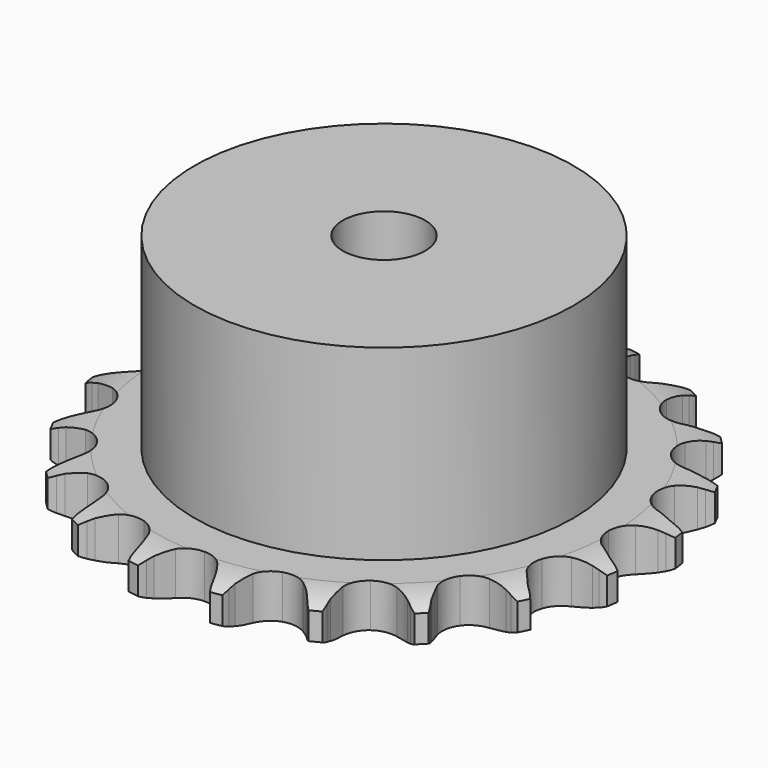
from build123d import *

# Parameters (mm, degrees)
PAD_DEPTH         = 5.3
SKETCH001_R       = 23
PAD001_DEPTH      = 28
SKETCH002_R       = 5
POCKET_DEPTH      = 0.001
POCKET_DEPTH_BACK = -28.001


with BuildPart() as part:
    # Sprocket → Pad (new body)
    with BuildSketch(Plane.XY):
        with BuildLine():
            ThreePointArc((-5.205483, 32.866126), (-4.489771, 32.037905), (-3.962254, 31.078781))
            Line((-3.962254, 31.078781), (-3.656643, 30.351761))
            ThreePointArc((-3.656643, 30.351761), (-3.16351, 29.366997), (-2.544467, 28.456103))
            ThreePointArc((-2.544467, 28.456103), (-1.415489, 27.541875), (0, 27.215083))
            ThreePointArc((0, 27.215083), (1.415489, 27.541875), (2.544467, 28.456103))
            ThreePointArc((2.544467, 28.456103), (3.16351, 29.366997), (3.656643, 30.351761))
            Line((3.656643, 30.351761), (3.962254, 31.078781))
            ThreePointArc((3.962254, 31.078781), (4.489771, 32.037905), (5.205483, 32.866126))
            ThreePointArc((5.205483, 32.866126), (5.630231, 31.857274), (5.835544, 30.782081))
            Line((5.835544, 30.782081), (5.901536, 29.996205))
            ThreePointArc((5.901536, 29.996205), (6.066224, 28.907252), (6.373487, 27.849646))
            ThreePointArc((6.373487, 27.849646), (7.164697, 26.63129), (8.409923, 25.883082))
            ThreePointArc((8.409923, 25.883082), (9.857118, 25.756469), (11.213351, 26.277079))
            Line((11.213351, 26.277079), (12.856884, 27.736276))
            ThreePointArc((12.856884, 27.736276), (13.107455, 28.040892), (13.372199, 28.333273))
            ThreePointArc((13.372199, 28.333273), (14.170283, 29.082443), (15.1069, 29.648961))
            ThreePointArc((15.1069, 29.648961), (15.199107, 28.558231), (15.062118, 27.472216))
            Line((15.062118, 27.472216), (14.882031, 26.704412))
            ThreePointArc((14.882031, 26.704412), (14.702154, 25.617864), (14.667561, 24.517071))
            ThreePointArc((14.667561, 24.517071), (15.043553, 23.113849), (15.996625, 22.017465))
            ThreePointArc((15.996625, 22.017465), (17.333863, 21.449841), (18.784595, 21.525871))
            Line((18.784595, 21.525871), (20.798604, 22.40577))
            ThreePointArc((20.798604, 22.40577), (21.131042, 22.618046), (21.47318, 22.814307))
            ThreePointArc((21.47318, 22.814307), (22.463709, 23.280189), (23.529548, 23.529548))
            ThreePointArc((23.529548, 23.529548), (23.280189, 22.463709), (22.814307, 21.47318))
            Line((22.814307, 21.47318), (22.40577, 20.798604))
            ThreePointArc((22.40577, 20.798604), (21.898935, 19.820821), (21.525871, 18.784595))
            ThreePointArc((21.525871, 18.784595), (21.449841, 17.333863), (22.017465, 15.996625))
            ThreePointArc((22.017465, 15.996625), (23.113849, 15.043553), (24.517071, 14.667561))
            Line((24.517071, 14.667561), (26.704412, 14.882031))
            ThreePointArc((26.704412, 14.882031), (27.086176, 14.981189), (27.472216, 15.062118))
            ThreePointArc((27.472216, 15.062118), (28.558231, 15.199107), (29.648961, 15.1069))
            ThreePointArc((29.648961, 15.1069), (29.082443, 14.170283), (28.333273, 13.372199))
            Line((28.333273, 13.372199), (27.736276, 12.856884))
            ThreePointArc((27.736276, 12.856884), (26.952095, 12.083578), (26.277079, 11.213351))
            ThreePointArc((26.277079, 11.213351), (25.756469, 9.857118), (25.883082, 8.409923))
            ThreePointArc((25.883082, 8.409923), (26.63129, 7.164697), (27.849646, 6.373487))
            Line((27.849646, 6.373487), (29.996205, 5.901536))
            ThreePointArc((29.996205, 5.901536), (30.389927, 5.877869), (30.782081, 5.835544))
            ThreePointArc((30.782081, 5.835544), (31.857274, 5.630231), (32.866126, 5.205483))
            ThreePointArc((32.866126, 5.205483), (32.037905, 4.489771), (31.078781, 3.962254))
            Line((31.078781, 3.962254), (30.351761, 3.656643))
            ThreePointArc((30.351761, 3.656643), (29.366997, 3.16351), (28.456103, 2.544467))
            ThreePointArc((28.456103, 2.544467), (27.541875, 1.415489), (27.215083, 0))
            ThreePointArc((27.215083, 0), (27.541875, -1.415489), (28.456103, -2.544467))
            Line((28.456103, -2.544467), (30.351761, -3.656643))
            ThreePointArc((30.351761, -3.656643), (30.718899, -3.800818), (31.078781, -3.962254))
            ThreePointArc((31.078781, -3.962254), (32.037905, -4.489771), (32.866126, -5.205483))
            ThreePointArc((32.866126, -5.205483), (31.857274, -5.630231), (30.782081, -5.835544))
            Line((30.782081, -5.835544), (29.996205, -5.901536))
            ThreePointArc((29.996205, -5.901536), (28.907252, -6.066224), (27.849646, -6.373487))
            ThreePointArc((27.849646, -6.373487), (26.63129, -7.164697), (25.883082, -8.409923))
            ThreePointArc((25.883082, -8.409923), (25.756469, -9.857118), (26.277079, -11.213351))
            Line((26.277079, -11.213351), (27.736276, -12.856884))
            ThreePointArc((27.736276, -12.856884), (28.040892, -13.107455), (28.333273, -13.372199))
            ThreePointArc((28.333273, -13.372199), (29.082443, -14.170283), (29.648961, -15.1069))
            ThreePointArc((29.648961, -15.1069), (28.558231, -15.199107), (27.472216, -15.062118))
            Line((27.472216, -15.062118), (26.704412, -14.882031))
            ThreePointArc((26.704412, -14.882031), (25.617864, -14.702154), (24.517071, -14.667561))
            ThreePointArc((24.517071, -14.667561), (23.113849, -15.043553), (22.017465, -15.996625))
            ThreePointArc((22.017465, -15.996625), (21.449841, -17.333863), (21.525871, -18.784595))
            Line((21.525871, -18.784595), (22.40577, -20.798604))
            ThreePointArc((22.40577, -20.798604), (22.618046, -21.131042), (22.814307, -21.47318))
            ThreePointArc((22.814307, -21.47318), (23.280189, -22.463709), (23.529548, -23.529548))
            ThreePointArc((23.529548, -23.529548), (22.463709, -23.280189), (21.47318, -22.814307))
            Line((21.47318, -22.814307), (20.798604, -22.40577))
            ThreePointArc((20.798604, -22.40577), (19.820821, -21.898935), (18.784595, -21.525871))
            ThreePointArc((18.784595, -21.525871), (17.333863, -21.449841), (15.996625, -22.017465))
            ThreePointArc((15.996625, -22.017465), (15.043553, -23.113849), (14.667561, -24.517071))
            Line((14.667561, -24.517071), (14.882031, -26.704412))
            ThreePointArc((14.882031, -26.704412), (14.981189, -27.086176), (15.062118, -27.472216))
            ThreePointArc((15.062118, -27.472216), (15.199107, -28.558231), (15.1069, -29.648961))
            ThreePointArc((15.1069, -29.648961), (14.170283, -29.082443), (13.372199, -28.333273))
            Line((13.372199, -28.333273), (12.856884, -27.736276))
            ThreePointArc((12.856884, -27.736276), (12.083578, -26.952095), (11.213351, -26.277079))
            ThreePointArc((11.213351, -26.277079), (9.857118, -25.756469), (8.409923, -25.883082))
            ThreePointArc((8.409923, -25.883082), (7.164697, -26.63129), (6.373487, -27.849646))
            Line((6.373487, -27.849646), (5.901536, -29.996205))
            ThreePointArc((5.901536, -29.996205), (5.877869, -30.389927), (5.835544, -30.782081))
            ThreePointArc((5.835544, -30.782081), (5.630231, -31.857274), (5.205483, -32.866126))
            ThreePointArc((5.205483, -32.866126), (4.489771, -32.037905), (3.962254, -31.078781))
            Line((3.962254, -31.078781), (3.656643, -30.351761))
            ThreePointArc((3.656643, -30.351761), (3.16351, -29.366997), (2.544467, -28.456103))
            ThreePointArc((2.544467, -28.456103), (1.415489, -27.541875), (0, -27.215083))
            ThreePointArc((0, -27.215083), (-1.415489, -27.541875), (-2.544467, -28.456103))
            Line((-2.544467, -28.456103), (-3.656643, -30.351761))
            ThreePointArc((-3.656643, -30.351761), (-3.800818, -30.718899), (-3.962254, -31.078781))
            ThreePointArc((-3.962254, -31.078781), (-4.489771, -32.037905), (-5.205483, -32.866126))
            ThreePointArc((-5.205483, -32.866126), (-5.630231, -31.857274), (-5.835544, -30.782081))
            Line((-5.835544, -30.782081), (-5.901536, -29.996205))
            ThreePointArc((-5.901536, -29.996205), (-6.066224, -28.907252), (-6.373487, -27.849646))
            ThreePointArc((-6.373487, -27.849646), (-7.164697, -26.63129), (-8.409923, -25.883082))
            ThreePointArc((-8.409923, -25.883082), (-9.857118, -25.756469), (-11.213351, -26.277079))
            Line((-11.213351, -26.277079), (-12.856884, -27.736276))
            ThreePointArc((-12.856884, -27.736276), (-13.107455, -28.040892), (-13.372199, -28.333273))
            ThreePointArc((-13.372199, -28.333273), (-14.170283, -29.082443), (-15.1069, -29.648961))
            ThreePointArc((-15.1069, -29.648961), (-15.199107, -28.558231), (-15.062118, -27.472216))
            Line((-15.062118, -27.472216), (-14.882031, -26.704412))
            ThreePointArc((-14.882031, -26.704412), (-14.702154, -25.617864), (-14.667561, -24.517071))
            ThreePointArc((-14.667561, -24.517071), (-15.043553, -23.113849), (-15.996625, -22.017465))
            ThreePointArc((-15.996625, -22.017465), (-17.333863, -21.449841), (-18.784595, -21.525871))
            Line((-18.784595, -21.525871), (-20.798604, -22.40577))
            ThreePointArc((-20.798604, -22.40577), (-21.131042, -22.618046), (-21.47318, -22.814307))
            ThreePointArc((-21.47318, -22.814307), (-22.463709, -23.280189), (-23.529548, -23.529548))
            ThreePointArc((-23.529548, -23.529548), (-23.280189, -22.463709), (-22.814307, -21.47318))
            Line((-22.814307, -21.47318), (-22.40577, -20.798604))
            ThreePointArc((-22.40577, -20.798604), (-21.898935, -19.820821), (-21.525871, -18.784595))
            ThreePointArc((-21.525871, -18.784595), (-21.449841, -17.333863), (-22.017465, -15.996625))
            ThreePointArc((-22.017465, -15.996625), (-23.113849, -15.043553), (-24.517071, -14.667561))
            Line((-24.517071, -14.667561), (-26.704412, -14.882031))
            ThreePointArc((-26.704412, -14.882031), (-27.086176, -14.981189), (-27.472216, -15.062118))
            ThreePointArc((-27.472216, -15.062118), (-28.558231, -15.199107), (-29.648961, -15.1069))
            ThreePointArc((-29.648961, -15.1069), (-29.082443, -14.170283), (-28.333273, -13.372199))
            Line((-28.333273, -13.372199), (-27.736276, -12.856884))
            ThreePointArc((-27.736276, -12.856884), (-26.952095, -12.083578), (-26.277079, -11.213351))
            ThreePointArc((-26.277079, -11.213351), (-25.756469, -9.857118), (-25.883082, -8.409923))
            ThreePointArc((-25.883082, -8.409923), (-26.63129, -7.164697), (-27.849646, -6.373487))
            Line((-27.849646, -6.373487), (-29.996205, -5.901536))
            ThreePointArc((-29.996205, -5.901536), (-30.389927, -5.877869), (-30.782081, -5.835544))
            ThreePointArc((-30.782081, -5.835544), (-31.857274, -5.630231), (-32.866126, -5.205483))
            ThreePointArc((-32.866126, -5.205483), (-32.037905, -4.489771), (-31.078781, -3.962254))
            Line((-31.078781, -3.962254), (-30.351761, -3.656643))
            ThreePointArc((-30.351761, -3.656643), (-29.366997, -3.16351), (-28.456103, -2.544467))
            ThreePointArc((-28.456103, -2.544467), (-27.541875, -1.415489), (-27.215083, 0))
            ThreePointArc((-27.215083, 0), (-27.541875, 1.415489), (-28.456103, 2.544467))
            Line((-28.456103, 2.544467), (-30.351761, 3.656643))
            ThreePointArc((-30.351761, 3.656643), (-30.718899, 3.800818), (-31.078781, 3.962254))
            ThreePointArc((-31.078781, 3.962254), (-32.037905, 4.489771), (-32.866126, 5.205483))
            ThreePointArc((-32.866126, 5.205483), (-31.857274, 5.630231), (-30.782081, 5.835544))
            Line((-30.782081, 5.835544), (-29.996205, 5.901536))
            ThreePointArc((-29.996205, 5.901536), (-28.907252, 6.066224), (-27.849646, 6.373487))
            ThreePointArc((-27.849646, 6.373487), (-26.63129, 7.164697), (-25.883082, 8.409923))
            ThreePointArc((-25.883082, 8.409923), (-25.756469, 9.857118), (-26.277079, 11.213351))
            Line((-26.277079, 11.213351), (-27.736276, 12.856884))
            ThreePointArc((-27.736276, 12.856884), (-28.040892, 13.107455), (-28.333273, 13.372199))
            ThreePointArc((-28.333273, 13.372199), (-29.082443, 14.170283), (-29.648961, 15.1069))
            ThreePointArc((-29.648961, 15.1069), (-28.558231, 15.199107), (-27.472216, 15.062118))
            Line((-27.472216, 15.062118), (-26.704412, 14.882031))
            ThreePointArc((-26.704412, 14.882031), (-25.617864, 14.702154), (-24.517071, 14.667561))
            ThreePointArc((-24.517071, 14.667561), (-23.113849, 15.043553), (-22.017465, 15.996625))
            ThreePointArc((-22.017465, 15.996625), (-21.449841, 17.333863), (-21.525871, 18.784595))
            Line((-21.525871, 18.784595), (-22.40577, 20.798604))
            ThreePointArc((-22.40577, 20.798604), (-22.618046, 21.131042), (-22.814307, 21.47318))
            ThreePointArc((-22.814307, 21.47318), (-23.280189, 22.463709), (-23.529548, 23.529548))
            ThreePointArc((-23.529548, 23.529548), (-22.463709, 23.280189), (-21.47318, 22.814307))
            Line((-21.47318, 22.814307), (-20.798604, 22.40577))
            ThreePointArc((-20.798604, 22.40577), (-19.820821, 21.898935), (-18.784595, 21.525871))
            ThreePointArc((-18.784595, 21.525871), (-17.333863, 21.449841), (-15.996625, 22.017465))
            ThreePointArc((-15.996625, 22.017465), (-15.043553, 23.113849), (-14.667561, 24.517071))
            Line((-14.667561, 24.517071), (-14.882031, 26.704412))
            ThreePointArc((-14.882031, 26.704412), (-14.981189, 27.086176), (-15.062118, 27.472216))
            ThreePointArc((-15.062118, 27.472216), (-15.199107, 28.558231), (-15.1069, 29.648961))
            ThreePointArc((-15.1069, 29.648961), (-14.170283, 29.082443), (-13.372199, 28.333273))
            Line((-13.372199, 28.333273), (-12.856884, 27.736276))
            ThreePointArc((-12.856884, 27.736276), (-12.083578, 26.952095), (-11.213351, 26.277079))
            ThreePointArc((-11.213351, 26.277079), (-9.857118, 25.756469), (-8.409923, 25.883082))
            ThreePointArc((-8.409923, 25.883082), (-7.164697, 26.63129), (-6.373487, 27.849646))
            Line((-6.373487, 27.849646), (-5.901536, 29.996205))
            ThreePointArc((-5.901536, 29.996205), (-5.877869, 30.389927), (-5.835544, 30.782081))
            ThreePointArc((-5.835544, 30.782081), (-5.630231, 31.857274), (-5.205483, 32.866126))
        make_face()
    extrude(amount=PAD_DEPTH)

    # Sketch → Groove (revolve, cut)
    with BuildSketch(Plane.XZ):
        with BuildLine():
            Line((27.791101, 0), (32.15, 0))
            Line((36.508899, 0), (32.15, 0))
            Line((36.508899, 5.3), (36.508899, 0))
            Line((32.15, 5.3), (36.508899, 5.3))
            Line((27.791101, 5.3), (32.15, 5.3))
            ThreePointArc((32.15, 4.3), (30.027169, 5.046794), (27.791101, 5.3))
            Line((32.15, 1), (32.15, 4.3))
            ThreePointArc((27.791101, 0), (30.027169, 0.253206), (32.15, 1))
        make_face()
    revolve(axis=Axis((0, 0, 0), (0, 0, 1)), mode=Mode.SUBTRACT)

    # Sketch001 → Pad001 (join)
    with BuildSketch(Plane.XY):
        Circle(SKETCH001_R)
    extrude(amount=PAD001_DEPTH)

    # Sketch002 → Pocket (cut, two sides)
    with BuildSketch(Plane.XY) as pocket_sk:
        Circle(SKETCH002_R)
    extrude(amount=-POCKET_DEPTH, mode=Mode.SUBTRACT)
    extrude(pocket_sk.sketch, amount=-POCKET_DEPTH_BACK, mode=Mode.SUBTRACT)


solid = part.part
